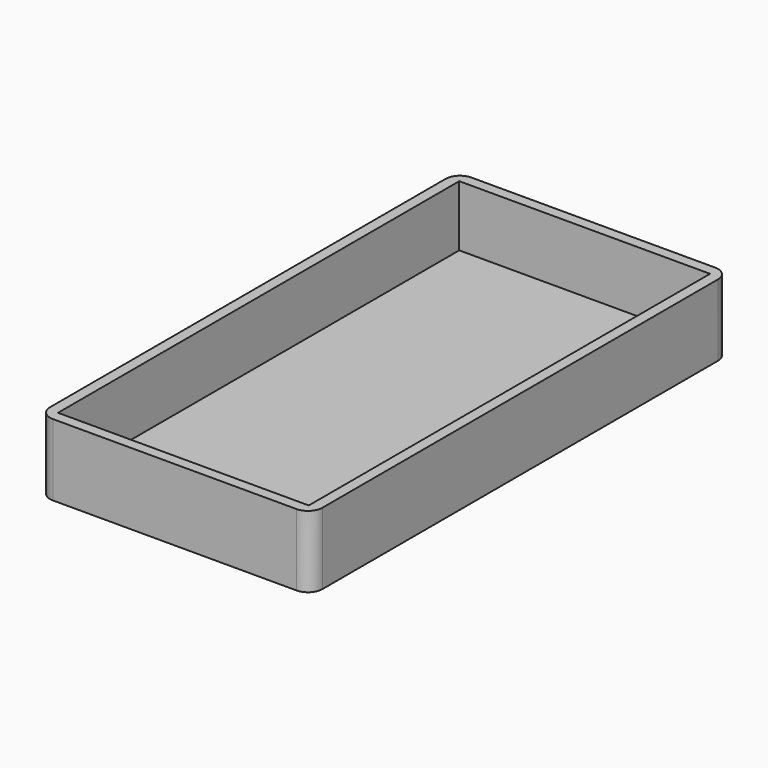
from build123d import *

# Parameters (mm, degrees)
BOX001_W     = 35
BOX001_H     = 70
BOX001_DEPTH = 9
BOX_W        = 38
BOX_H        = 73
BOX_DEPTH    = 10
FILLET_R     = 2


with BuildPart() as interior:
    # Box001 → Box001 (new body)
    with BuildSketch(Plane(origin=(1.5, 1.5, 1.5), x_dir=(1, 0, 0), z_dir=(0, 0, 1))):
        with Locations((17.5, 35)):
            Rectangle(BOX001_W, BOX001_H)
    extrude(amount=BOX001_DEPTH)


with BuildPart() as obj1:
    # Box → Box (new body)
    with BuildSketch(Plane.XY):
        with Locations((19, 36.5)):
            Rectangle(BOX_W, BOX_H)
    extrude(amount=BOX_DEPTH)

    # Cut: cut Interior
    add(interior.part, mode=Mode.SUBTRACT)

    # Fillet
    fillet_edges = [obj1.edges().sort_by_distance(p)[0] for p in [
        (0, 0, 5),
        (0, 73, 5),
        (38, 0, 5),
        (38, 73, 5),
    ]]
    fillet(fillet_edges, radius=FILLET_R)


solid = obj1.part
